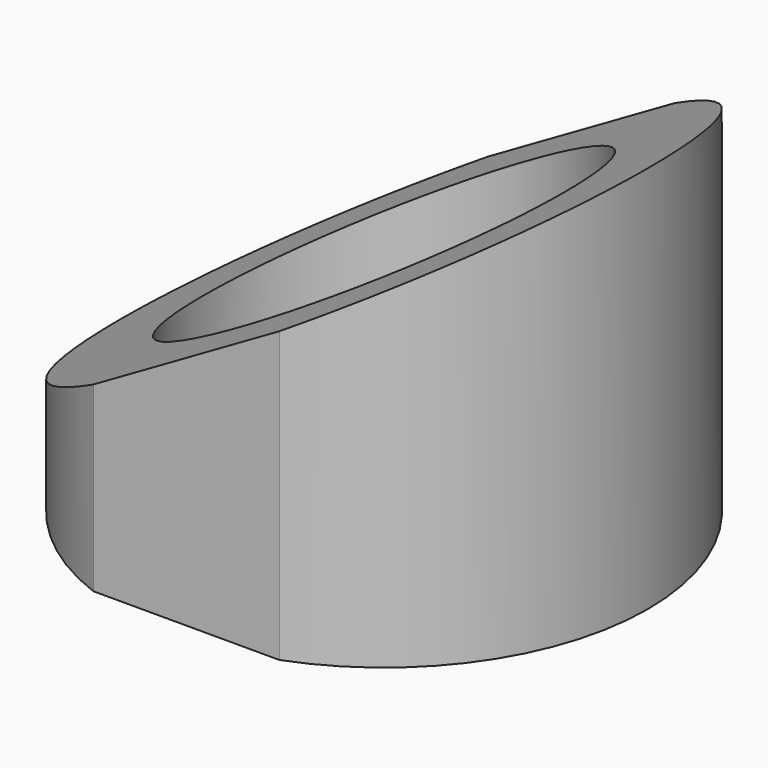
from build123d import *

# Parameters (mm, degrees)
F0_R          = 4.75
F0_R_2        = 3.25
F1_DEPTH      = 10
F3_DEPTH      = 4.751
F3_DEPTH_BACK = 4.751
F5_DEPTH      = 6.9858275573


with BuildPart() as f1:
    # F0 (on Top) → F1 (new body)
    with BuildSketch(Plane.XY):
        Circle(F0_R)
        Circle(F0_R_2, mode=Mode.SUBTRACT)
    extrude(amount=F1_DEPTH)

    # F2 (on Front) → F3 (cut, two sides)
    with BuildSketch(Plane.XZ) as f3_sk:
        Polygon((4.75, 10), (-4.75, 10), (-4.75, 1.5), (4.75, 6.9848275573), align=None)
    extrude(amount=-F3_DEPTH, mode=Mode.SUBTRACT)
    extrude(f3_sk.sketch, amount=F3_DEPTH_BACK, mode=Mode.SUBTRACT)

    # F4 (on face) → F5 (cut, through all)
    with BuildSketch(Plane(origin=(0, 0, 0), x_dir=(1, 0, 0), z_dir=(0, 0, -1))):
        with BuildLine():
            Line((-1.6746566812, 4.445), (1.6746566812, 4.445))
            ThreePointArc((1.6746566812, 4.445), (0, 4.75), (-1.6746566812, 4.445))
        make_face()
        with BuildLine():
            Line((1.6746566812, -4.445), (-1.6746566812, -4.445))
            ThreePointArc((-1.6746566812, -4.445), (0, -4.75), (1.6746566812, -4.445))
        make_face()
    extrude(amount=-F5_DEPTH, mode=Mode.SUBTRACT)


solid = f1.part
